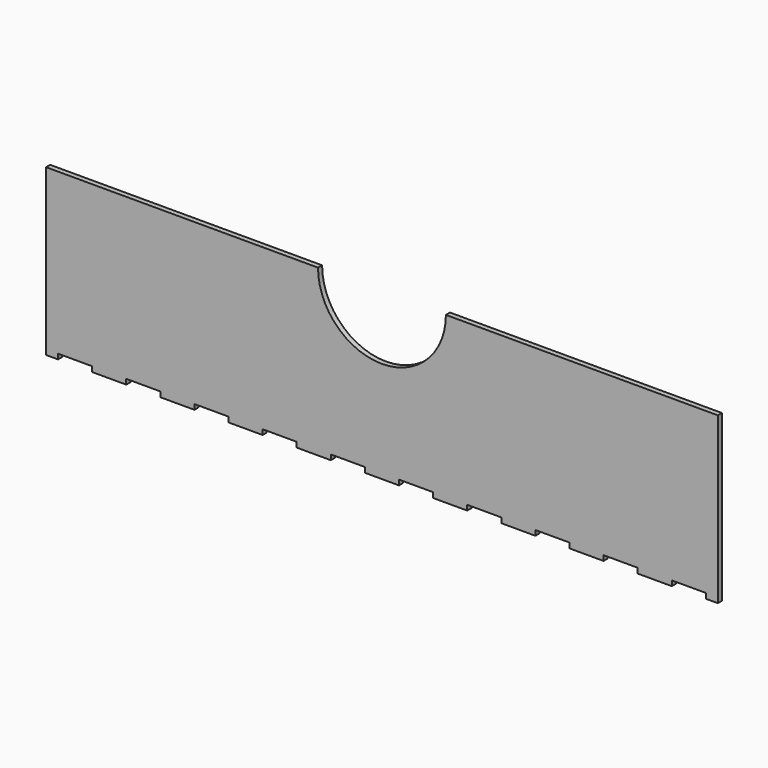
from build123d import *

# Parameters (mm, degrees)
F0_W     = 394
F0_H     = 94
F1_DEPTH = 3
F2_W     = 7
F2_H     = 3
F2_W_2   = 20
F3_DEPTH = 3
F4_R     = 37.5
F5_DEPTH = 25


with BuildPart() as f1:
    # F0 (on Front) → F1 (new body)
    with BuildSketch(Plane.XZ):
        Rectangle(F0_W, F0_H)
    extrude(amount=F1_DEPTH)

    # F2 (on face) → F3 (join, through all)
    with BuildSketch(Plane.XZ.offset(3)):
        with Locations((-193.5, -48.5)):
            Rectangle(F2_W, F2_H)
        with Locations((193.5, -48.5)):
            Rectangle(F2_W, F2_H)
        with Locations((-160, -48.5)):
            Rectangle(F2_W_2, F2_H)
        with Locations((-120, -48.5)):
            Rectangle(F2_W_2, F2_H)
        with Locations((-80, -48.5)):
            Rectangle(F2_W_2, F2_H)
        with Locations((-40, -48.5)):
            Rectangle(F2_W_2, F2_H)
        with Locations((0, -48.5)):
            Rectangle(F2_W_2, F2_H)
        with Locations((40, -48.5)):
            Rectangle(F2_W_2, F2_H)
        with Locations((80, -48.5)):
            Rectangle(F2_W_2, F2_H)
        with Locations((120, -48.5)):
            Rectangle(F2_W_2, F2_H)
        with Locations((160, -48.5)):
            Rectangle(F2_W_2, F2_H)
    extrude(amount=-F3_DEPTH)

    # F4 (on face) → F5 (cut)
    with BuildSketch(Plane.XZ.offset(3)):
        with Locations((0, 47)):
            Circle(F4_R)
    extrude(amount=-F5_DEPTH, mode=Mode.SUBTRACT)


solid = f1.part
